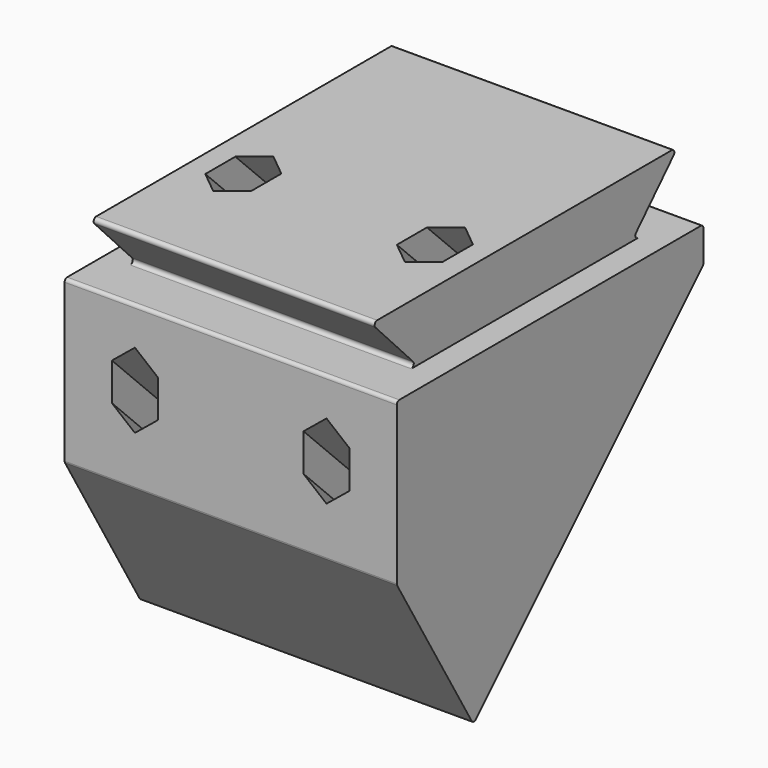
from build123d import *

# Parameters (mm, degrees)
F0_W      = 52
F0_H      = 60
F1_DEPTH  = 15
F3_W      = 4
F3_H      = 9.4
F4_DEPTH  = 60
F5_DEPTH  = 56.9
F6_DEPTH  = 45
F8_DEPTH  = 63.8
F9_R      = 2.1
F10_DEPTH = 101.4
F11_START = -15
F11_DEPTH = 49.6
F13_DEPTH = 115.6
F14_R     = 0.5


with BuildPart() as f1:
    # F0 (on Top) → F1 (new body)
    with BuildSketch(Plane.XY):
        Rectangle(F0_W, F0_H)
    extrude(amount=F1_DEPTH)

    # F3 (on face) → F4 (cut, through all)
    with BuildSketch(Plane(origin=(0, 30, 0), x_dir=(-1, 0, 0), z_dir=(0, 1, 0))):
        with Locations((-24, 10.3)):
            Rectangle(F3_W, F3_H)
        with Locations((24, 10.3)):
            Rectangle(F3_W, F3_H)
    extrude(amount=-F4_DEPTH, mode=Mode.SUBTRACT)

    # F2 (on face) → F5 (cut)
    with BuildSketch(Plane(origin=(-26, 0, 0), x_dir=(0, -1, 0), z_dir=(-1, 0, 0))):
        Polygon((-21, 5.6), (-30, 15), (-30, 5.6), align=None)
        Polygon((30, 5.6), (30, 15), (21, 5.6), align=None)
    extrude(amount=-F5_DEPTH, mode=Mode.SUBTRACT)

    # F6 (add): a face of the model
    f6_faces = [f1.faces().sort_by_distance(p)[0] for p in [
        (0, 0, 0),
    ]]
    extrude(f6_faces, amount=F6_DEPTH)

    # F7 (on face) → F8 (cut)
    with BuildSketch(Plane(origin=(-26, 0, 0), x_dir=(0, -1, 0), z_dir=(-1, 0, 0))):
        Polygon((15, -45), (-30, 0), (-30, -45), align=None)
    extrude(amount=-F8_DEPTH, mode=Mode.SUBTRACT)

    # F9 (on face) → F10 (cut)
    with BuildSketch(Plane(origin=(0, 15, -15), x_dir=(1, 0, 0), z_dir=(0, 0.7071067812, -0.7071067812))):
        with Locations((-15, -4.3933982822)):
            Circle(F9_R)
        with Locations((-15, 25.6066017178)):
            Circle(F9_R)
        with Locations((15, -4.3933982822)):
            Circle(F9_R)
        with Locations((15, 25.6066017178)):
            Circle(F9_R)
    extrude(amount=-F10_DEPTH, mode=Mode.SUBTRACT)

    # F9 (on face) → F11 (cut)
    with BuildSketch(Plane(origin=(0, 15, -15), x_dir=(1, 0, 0), z_dir=(0, 0.7071067812, -0.7071067812)).offset(F11_START)):
        Polygon((-11.4, -6.4718592513), (-11.4, -2.3149373131), (-15, -0.236476344), (-18.6, -2.3149373131), (-18.6, -6.4718592513), (-15, -8.5503202204), align=None)
        with Locations((-15, -4.3933982822)):
            Circle(F9_R, mode=Mode.SUBTRACT)
        Polygon((-11.4, 23.5281407487), (-11.4, 27.6850626869), (-15, 29.763523656), (-18.6, 27.6850626869), (-18.6, 23.5281407487), (-15, 21.4496797796), align=None)
        with Locations((-15, 25.6066017178)):
            Circle(F9_R, mode=Mode.SUBTRACT)
        Polygon((11.4, 27.6850626869), (11.4, 23.5281407487), (15, 21.4496797796), (18.6, 23.5281407487), (18.6, 27.6850626869), (15, 29.763523656), align=None)
        with Locations((15, 25.6066017178)):
            Circle(F9_R, mode=Mode.SUBTRACT)
        Polygon((11.4, -2.3149373131), (11.4, -6.4718592513), (15, -8.5503202204), (18.6, -6.4718592513), (18.6, -2.3149373131), (15, -0.236476344), align=None)
        with Locations((15, -4.3933982822)):
            Circle(F9_R, mode=Mode.SUBTRACT)
    extrude(amount=-F11_DEPTH, mode=Mode.SUBTRACT)

    # F12 (on face) → F13 (cut)
    with BuildSketch(Plane(origin=(-26, 0, 0), x_dir=(0, -1, 0), z_dir=(-1, 0, 0))):
        Polygon((30, -19.7), (15, -45), (30, -45), align=None)
    extrude(amount=-F13_DEPTH, mode=Mode.SUBTRACT)

    # F14
    f14_edges = [f1.edges().sort_by_distance(p)[0] for p in [
        (0, -30, 5.6),
        (0, -30, -19.7),
        (0, 30, 5.6),
        (0, -30, 15),
        (0, 30, 15),
        (0, -21, 5.6),
        (0, 21, 5.6),
        (0, 30, 0),
        (0, -15, -45),
    ]]
    fillet(f14_edges, radius=F14_R)


solid = f1.part
